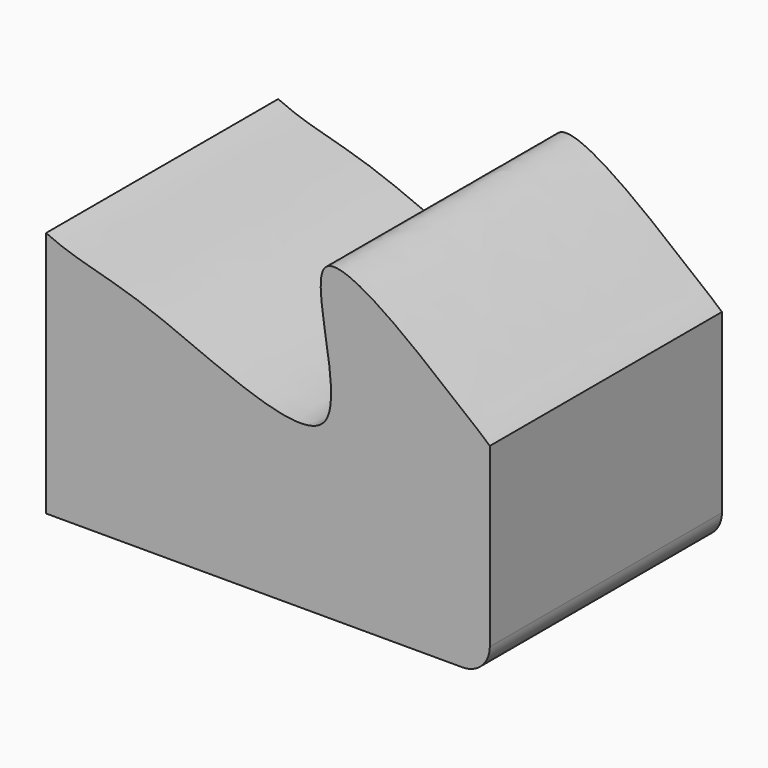
from build123d import *

# Parameters (mm, degrees)
F1_DEPTH = 68.072


with BuildPart() as f1:
    # F0 (on Front) → F1 (new body)
    with BuildSketch(Plane.XZ):
        with BuildLine():
            add(Edge.make_bspline(
                [(-65.6212195754, -44.043213129), (-57.990104171, -47.6410757652), (-43.3890529863, -48.5968405717), (13.837560673, -78.8551760709), (-13.178909407, -10.706002509), (32.8759400488, -49.8315061678), (36.8546978275, -52.5845302968), (38.49099949, -54.1647821665)],
                knots=[0, 0, 0, 0, 0.19688366, 0.4411461297, 0.6551595071, 0.8855157888, 1, 1, 1, 1], degree=3))
            Line((-65.6212195754, -44.043213129), (-65.6212195754, -101.9876971841))
            Line((-65.6212195754, -101.9876971841), (32.14099949, -101.9876971841))
            ThreePointArc((32.14099949, -101.9876971841), (36.6311275506, -100.1278252446), (38.49099949, -95.6376971841))
            Line((38.49099949, -95.6376971841), (38.49099949, -54.1647821665))
        make_face()
    extrude(amount=F1_DEPTH)


solid = f1.part
